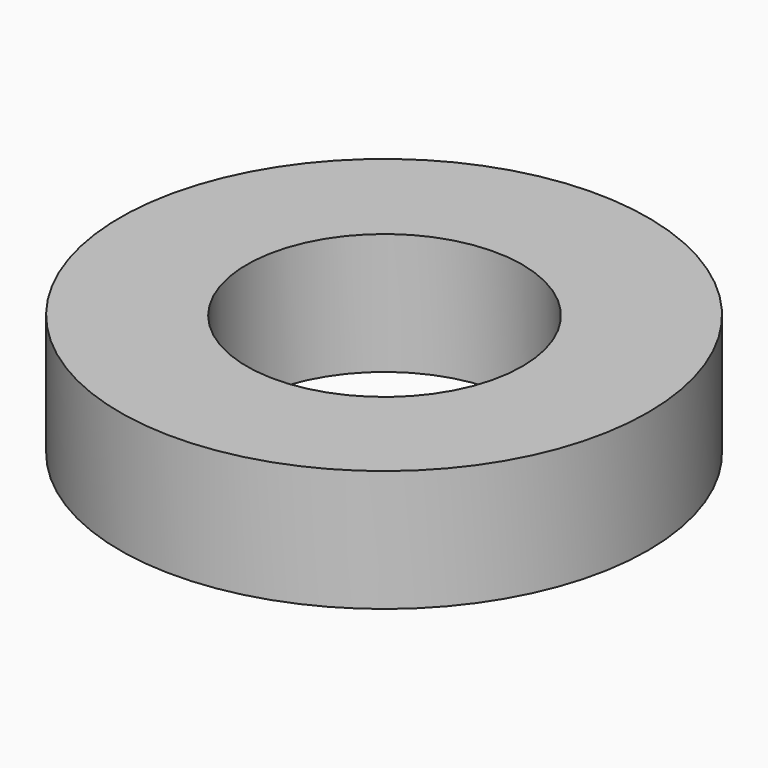
from build123d import *

# Parameters (mm, degrees)
SKETCH001_R  = 5
PAD_DEPTH    = 2.3
SKETCH_R     = 2.61
POCKET_DEPTH = 5


with BuildPart() as part:
    # Sketch001 → Pad (new body)
    with BuildSketch(Plane.XY):
        Circle(SKETCH001_R)
    extrude(amount=PAD_DEPTH)

    # Sketch (on Face3 of Pad) → Pocket (cut)
    with BuildSketch(Plane.XY.offset(2.3)):
        with Locations((0.015112, -0.00765)):
            Circle(SKETCH_R)
    extrude(amount=-POCKET_DEPTH, mode=Mode.SUBTRACT)


solid = part.part
